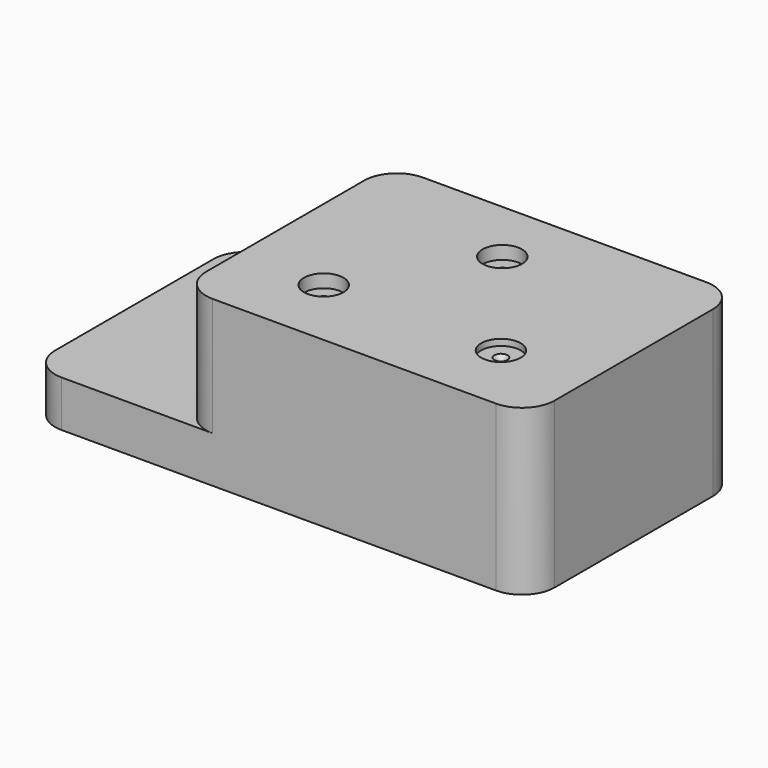
from build123d import *

# Parameters (mm, degrees)
F1_DEPTH       = 127
F2_R           = 15.748
F4_D           = 6.35
F4_DEPTH       = 38.1
F4_CBORE_D     = 19.05
F4_CBORE_DEPTH = 6.35
F4_TIP         = 1.9077324654
F5_D           = 6.35
F5_DEPTH       = 3.048
F5_START       = 57.15
F5_CBORE_D     = 19.05
F5_CBORE_DEPTH = 3.048
F5_TIP         = 1.9077324654


with BuildPart() as f1:
    # F0 (on Front) → F1 (new body)
    with BuildSketch(Plane.XZ):
        Polygon((0, 22.352), (0, 0), (241.3, 0), (241.3, 79.502), (72.898, 79.502), (72.898, 22.352), align=None)
    extrude(amount=F1_DEPTH)

    # F2
    f2_edges = [f1.edges().sort_by_distance(p)[0] for p in [
        (0, -127, 11.176),
        (0, 0, 11.176),
        (72.898, -127, 50.927),
        (72.898, 0, 50.927),
        (241.3, -127, 39.751),
        (241.3, 0, 39.751),
    ]]
    fillet(f2_edges, radius=F2_R)

    # F4
    with Locations(Plane.XY.offset(79.502)):
        with Locations((152.4, -31.75), (114.3, -91.948)):
            CounterBoreHole(F4_D / 2, F4_CBORE_D / 2, F4_CBORE_DEPTH, depth=F4_DEPTH)
            with Locations((0, 0, -(F4_DEPTH + F4_TIP / 2))):  # 118° drill point
                Cone(0, F4_D / 2, F4_TIP, mode=Mode.SUBTRACT)

    # F5
    # its depths count from where the whole tool has entered the part; down to there all is cleared
    with Locations(Plane.XY.offset(79.502)):
        with Locations((35.052, -31.75)):
            Hole(F5_CBORE_D / 2, depth=F5_START)
    with Locations(Plane.XY.offset(79.502)):
        with Locations((199.898, -91.948, 0), (35.052, -31.75, -F5_START)):
            CounterBoreHole(F5_D / 2, F5_CBORE_D / 2, F5_CBORE_DEPTH, depth=F5_DEPTH)
            with Locations((0, 0, -(F5_DEPTH + F5_TIP / 2))):  # 118° drill point
                Cone(0, F5_D / 2, F5_TIP, mode=Mode.SUBTRACT)


solid = f1.part
